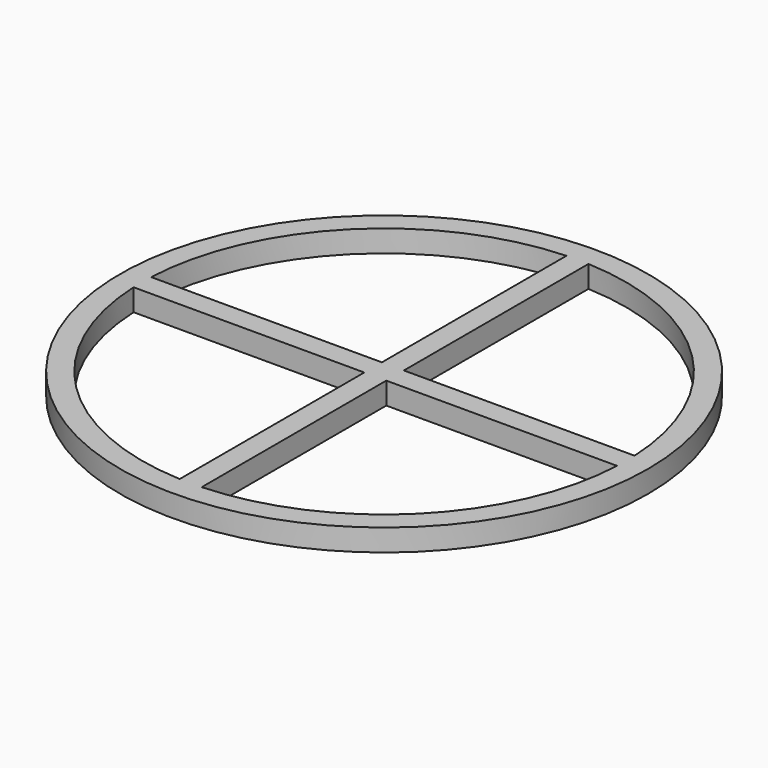
from build123d import *

# Parameters (mm, degrees)
F0_R     = 60
F1_DEPTH = 5


with BuildPart() as f1:
    # F0 (on Top) → F1 (new body)
    with BuildSketch(Plane.XY):
        Circle(F0_R)
        with BuildLine():
            ThreePointArc((-2.5, -54.943152), (-38.890873, -38.890873), (-54.943152, -2.5))
            Line((-54.943152, -2.5), (-2.5, -2.5))
            Line((-2.5, -2.5), (-2.5, -54.943152))
        make_face(mode=Mode.SUBTRACT)
        with BuildLine():
            ThreePointArc((54.943152, -2.5), (38.890873, -38.890873), (2.5, -54.943152))
            Line((2.5, -54.943152), (2.5, -2.5))
            Line((2.5, -2.5), (54.943152, -2.5))
        make_face(mode=Mode.SUBTRACT)
        with BuildLine():
            ThreePointArc((-54.943152, 2.5), (-38.890873, 38.890873), (-2.5, 54.943152))
            Line((-2.5, 54.943152), (-2.5, 2.5))
            Line((-2.5, 2.5), (-54.943152, 2.5))
        make_face(mode=Mode.SUBTRACT)
        with BuildLine():
            ThreePointArc((2.5, 54.943152), (38.890873, 38.890873), (54.943152, 2.5))
            Line((54.943152, 2.5), (2.5, 2.5))
            Line((2.5, 2.5), (2.5, 54.943152))
        make_face(mode=Mode.SUBTRACT)
    extrude(amount=F1_DEPTH)


solid = f1.part
